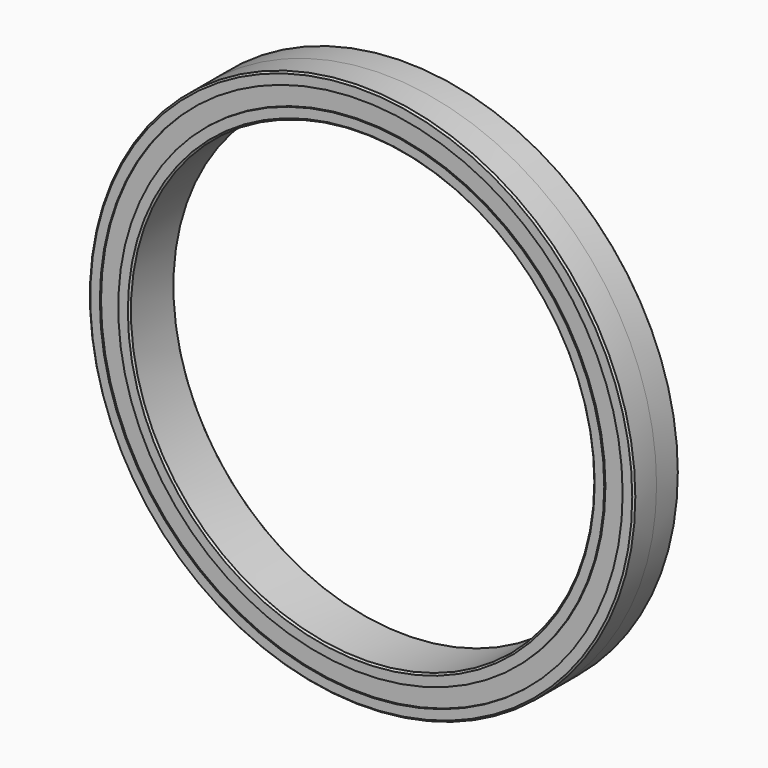
from build123d import *

# Parameters (mm, degrees)
F0_R     = 48.25
F0_R_2   = 46.25
F0_R_3   = 43
F0_R_4   = 41
F1_DEPTH = 5
F2_DEPTH = 4.75
F3_SIZE  = 0.3


with BuildPart() as f1:
    # F0 (on Front) → F1 (new body, symmetric)
    with BuildSketch(Plane.XZ):
        Circle(F0_R)
        Circle(F0_R_2, mode=Mode.SUBTRACT)
        Circle(F0_R_3)
        Circle(F0_R_4, mode=Mode.SUBTRACT)
    extrude(amount=F1_DEPTH, both=True)

    # F0 (on Front) → F2 (join, symmetric)
    with BuildSketch(Plane.XZ):
        Circle(F0_R_2)
        Circle(F0_R_3, mode=Mode.SUBTRACT)
    extrude(amount=F2_DEPTH, both=True)

    # F3
    f3_edges = [f1.edges().sort_by_distance(p)[0] for p in [
        (-48.25, 5, 0),
        (48.25, 0, 0),
        (-48.25, -5, 0),
        (-41, -5, 0),
        (41, 0, 0),
        (-41, 5, 0),
    ]]
    chamfer(f3_edges, length=F3_SIZE)


solid = f1.part
